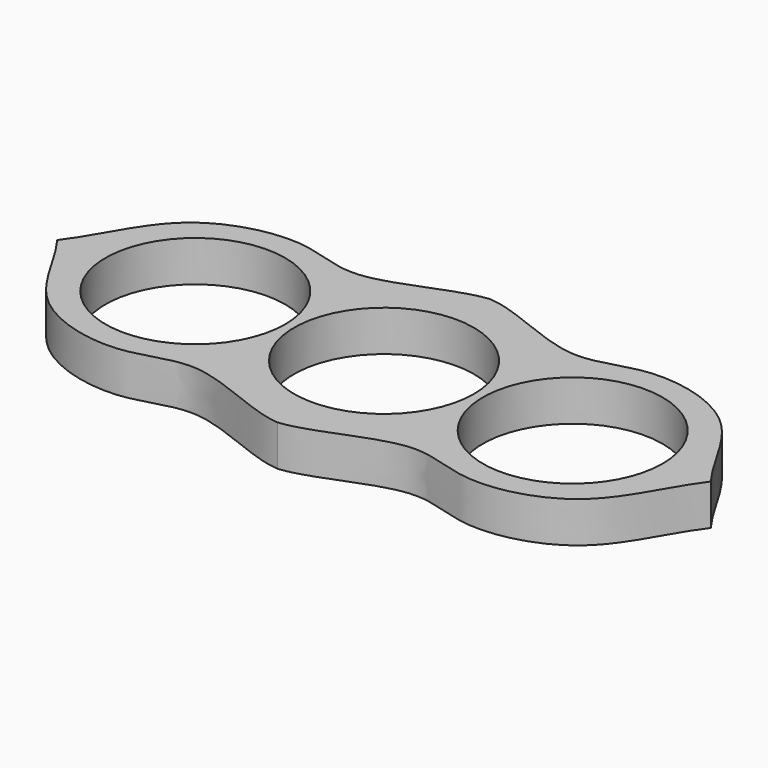
from build123d import *

# Parameters (mm, degrees)
F2_DEPTH = 5
F1_R     = 11
F3_DEPTH = 25


with BuildPart() as f2:
    # F0 (on Top) → F2 (new body)
    with BuildSketch(Plane.XY):
        with BuildLine():
            add(Edge.make_bspline(
                [(0, 16.3166696827), (3.5657212598, 16.0403345339), (13.133146472, 10.3009581446), (20.8077415202, 15.270765109), (34.3109333985, 12.1061073272), (37.4478100235, 3.3879376446), (40, 0)],
                knots=[0, 0, 0, 0, 0.268631369, 0.4829909698, 0.7356900098, 1, 1, 1, 1], degree=3))
            add(Edge.make_bspline(
                [(0, 16.3166696827), (-3.5657212598, 16.0403345339), (-13.133146472, 10.3009581446), (-20.8077415202, 15.270765109), (-34.3109333985, 12.1061073272), (-37.4478100235, 3.3879376446), (-40, 0)],
                knots=[0, 0, 0, 0, 0.268631369, 0.4829909698, 0.7356900098, 1, 1, 1, 1], degree=3))
            add(Edge.make_bspline(
                [(0, -16.3166696827), (-3.5657212598, -16.0403345339), (-13.133146472, -10.3009581446), (-20.8077415202, -15.270765109), (-34.3109333985, -12.1061073272), (-37.4478100235, -3.3879376446), (-40, 0)],
                knots=[0, 0, 0, 0, 0.268631369, 0.4829909698, 0.7356900098, 1, 1, 1, 1], degree=3))
            add(Edge.make_bspline(
                [(0, -16.3166696827), (3.5657212598, -16.0403345339), (13.133146472, -10.3009581446), (20.8077415202, -15.270765109), (34.3109333985, -12.1061073272), (37.4478100235, -3.3879376446), (40, 0)],
                knots=[0, 0, 0, 0, 0.268631369, 0.4829909698, 0.7356900098, 1, 1, 1, 1], degree=3))
        make_face()
    extrude(amount=F2_DEPTH)

    # F1 (on Top) → F3 (cut)
    with BuildSketch(Plane.XY):
        Circle(F1_R)
        with Locations((-23.0985227972, 0)):
            Circle(F1_R)
        with Locations((23.0985227972, 0)):
            Circle(F1_R)
    extrude(amount=F3_DEPTH, mode=Mode.SUBTRACT)


solid = f2.part
